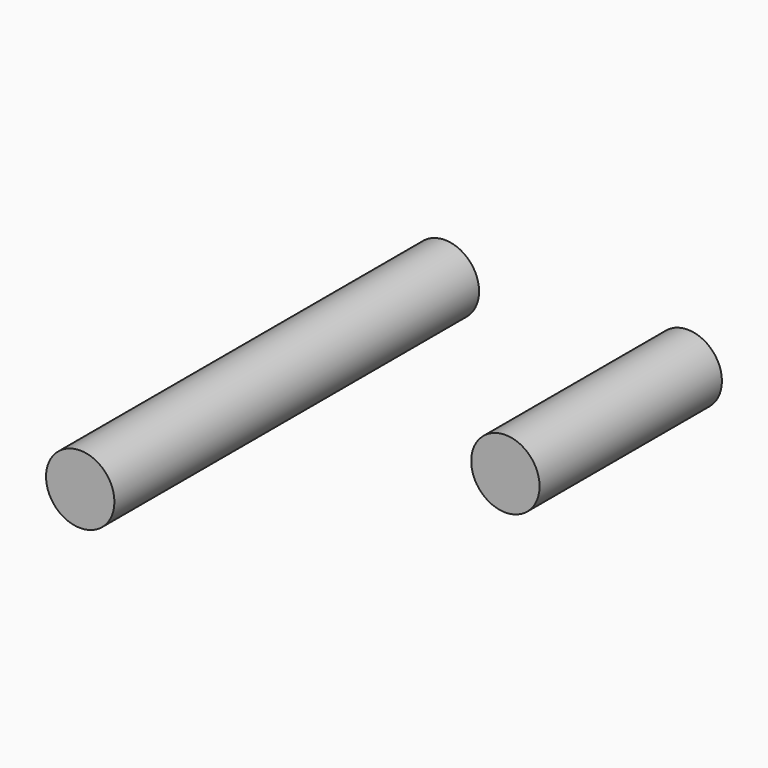
from build123d import *

# Parameters (mm, degrees)
F0_R      = 0.9
F1_DEPTH  = 6
F1_FACE_R = 0.9
F2_DEPTH  = 6


with BuildPart() as f1:
    # F0 (on Front) → F1 (new body)
    with BuildSketch(Plane.XZ):
        Circle(F0_R)
        with Locations((-6.392163, 0)):
            Circle(F0_R)
    extrude(amount=F1_DEPTH)

    # F1_face (on face) → F2 (join)
    with BuildSketch(Plane(origin=(-6.392163, -6, 0), x_dir=(1, 0, 0), z_dir=(0, -1, 0))):
        Circle(F1_FACE_R)
    extrude(amount=F2_DEPTH)


solid = f1.part
